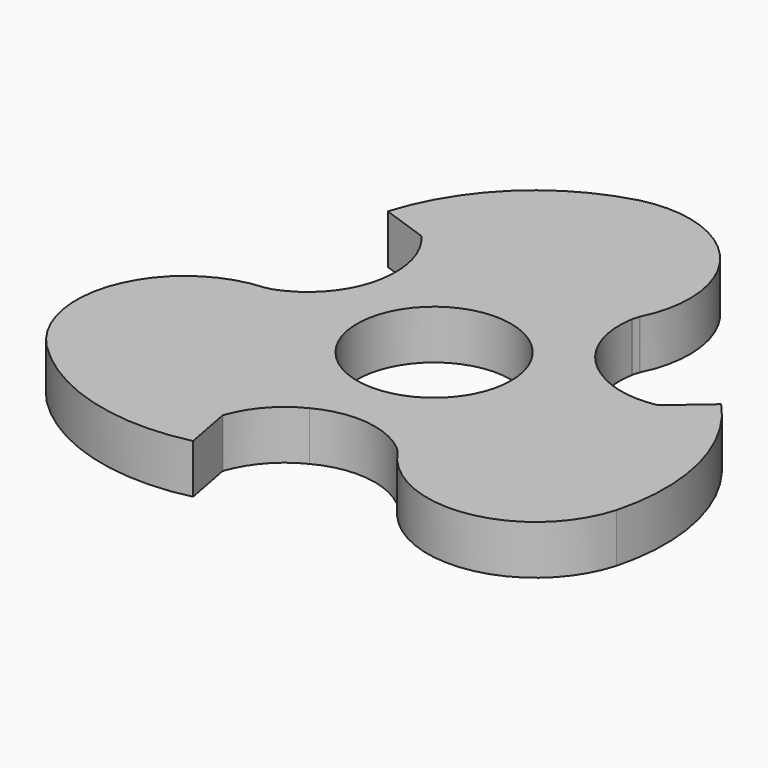
from build123d import *

# Parameters (mm, degrees)
F0_R     = 10.98
F1_DEPTH = 7


with BuildPart() as f1:
    # F0 (on Top) → F1 (new body)
    with BuildSketch(Plane.XY):
        with BuildLine():
            ThreePointArc((-15.438375, 11.691825), (-17.74111, 4.986101), (-23.363065, 0.666037))
            Line((-23.363065, 0.666037), (-23.521711, 0.605819))
            Line((-23.521711, 0.605819), (-24.486203, 0.388107))
            ThreePointArc((-24.486203, 0.388107), (-37.928011, -9.477121), (-34.569027, -25.808751))
            ThreePointArc((-34.569027, -25.808751), (-22.066111, -33.147469), (-7.572365, -33.480653))
            Line((-7.572365, -33.480653), (-8.872022, -26.62423))
            Line((-8.872022, -26.62423), (-8.862103, -26.524514))
            ThreePointArc((-8.862103, -26.524514), (-6.360025, -22.222041), (-2.40843, -19.196059))
            ThreePointArc((-2.40843, -19.196059), (4.550265, -17.837424), (11.102528, -20.546148))
            Line((11.102528, -20.546148), (11.215397, -20.633282))
            Line((11.215397, -20.633282), (11.904792, -21.379849))
            ThreePointArc((11.904792, -21.379849), (27.169234, -28.088182), (39.633349, -17.013402))
            ThreePointArc((39.633349, -17.013402), (39.733077, -2.527142), (32.781278, 10.182466))
            Line((32.781278, 10.182466), (27.49327, 5.628718))
            Line((27.49327, 5.628718), (27.401954, 5.587451))
            ThreePointArc((27.401954, 5.587451), (22.414498, 5.60323), (17.810174, 7.520302))
            ThreePointArc((17.810174, 7.520302), (13.154215, 12.867392), (12.223907, 19.89618))
            Line((12.223907, 19.89618), (12.254663, 20.085775))
            Line((12.254663, 20.085775), (12.533542, 20.982255))
            Line((12.533542, 20.982255), (12.544781, 21.007811))
            ThreePointArc((12.544781, 21.007811), (10.722147, 37.581372), (-5.100951, 42.838222))
            ThreePointArc((-5.100951, 42.838222), (-17.696284, 35.68146), (-25.227228, 23.306221))
            Line((-25.227228, 23.306221), (-18.639563, 21.003546))
            Line((-18.639563, 21.003546), (-18.558167, 20.945097))
            ThreePointArc((-18.558167, 20.945097), (-16.083154, 16.626998), (-15.438375, 11.691825))
        make_face()
        Circle(F0_R, mode=Mode.SUBTRACT)
    extrude(amount=F1_DEPTH)


solid = f1.part
